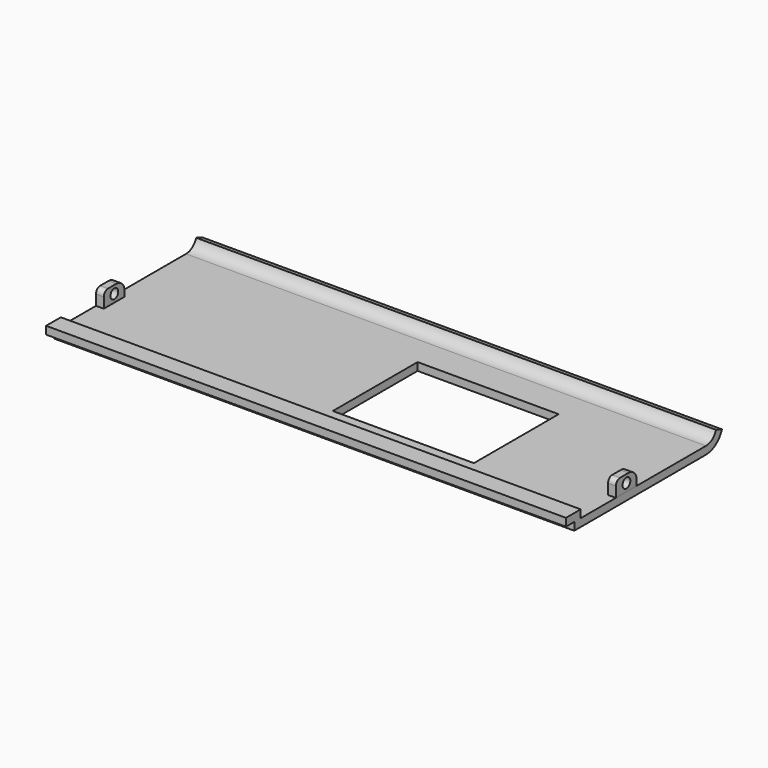
from build123d import *

# Parameters (mm, degrees)
F1_DEPTH = 200
F4_DEPTH = 200
F3_R     = 1.875
F5_DEPTH = 200.001
F6_W     = 194
F6_H     = 10
F7_DEPTH = 25
F8_W     = 54.280467
F8_H     = 40.758641
F9_DEPTH = 9.001


with BuildPart() as f1:
    # F0 (on Right) → F1 (new body)
    with BuildSketch(Plane.YZ):
        with BuildLine():
            Line((63.305819, 3), (3.084723, 3))
            Line((3.084723, 3), (3.084723, 6))
            Line((3.084723, 6), (-4, 6))
            Line((-4, 6), (-4, 3))
            Line((-4, 3), (0, 3))
            Line((0, 3), (0, 0))
            Line((0, 0), (63.305819, 0))
            ThreePointArc((63.305819, 0), (68.033242, 1.514758), (71, 5.49488))
            Line((71, 5.49488), (68.162324, 6.468324))
            ThreePointArc((68.162324, 6.468324), (66.28973, 3.956103), (63.305819, 3))
        make_face()
    extrude(amount=F1_DEPTH)

    # F8 (on face) → F9 (cut, through all)
    with BuildSketch(Plane(origin=(0, 0, 0), x_dir=(1, 0, 0), z_dir=(0, 0, -1))):
        with Locations((125.433217, -31.4017)):
            Rectangle(F8_W, F8_H)
    extrude(amount=-F9_DEPTH, mode=Mode.SUBTRACT)


with BuildPart() as f4:
    # F2 (on face) → F4 (new body)
    with BuildSketch(Plane.YZ.offset(200)):
        with BuildLine():
            Line((20, 7), (20, 3))
            Line((20, 3), (30, 3))
            Line((30, 3), (30, 5))
            ThreePointArc((30, 5), (28.828427, 7.828427), (26, 9))
            Line((26, 9), (22, 9))
            ThreePointArc((22, 9), (20.585786, 8.414214), (20, 7))
        make_face()
    extrude(amount=-F4_DEPTH)

    # F3 (on Right) → F5 (cut, through all)
    with BuildSketch(Plane.YZ):
        with Locations((25.082385, 5.996722)):
            Circle(F3_R)
    extrude(amount=F5_DEPTH, mode=Mode.SUBTRACT)

    # F6 (on face) → F7 (cut)
    with BuildSketch(Plane(origin=(0, 0, 3), x_dir=(1, 0, 0), z_dir=(0, 0, -1))):
        with Locations((100, -25)):
            Rectangle(F6_W, F6_H)
    extrude(amount=-F7_DEPTH, mode=Mode.SUBTRACT)


solid = Compound([f1.part, f4.part])
